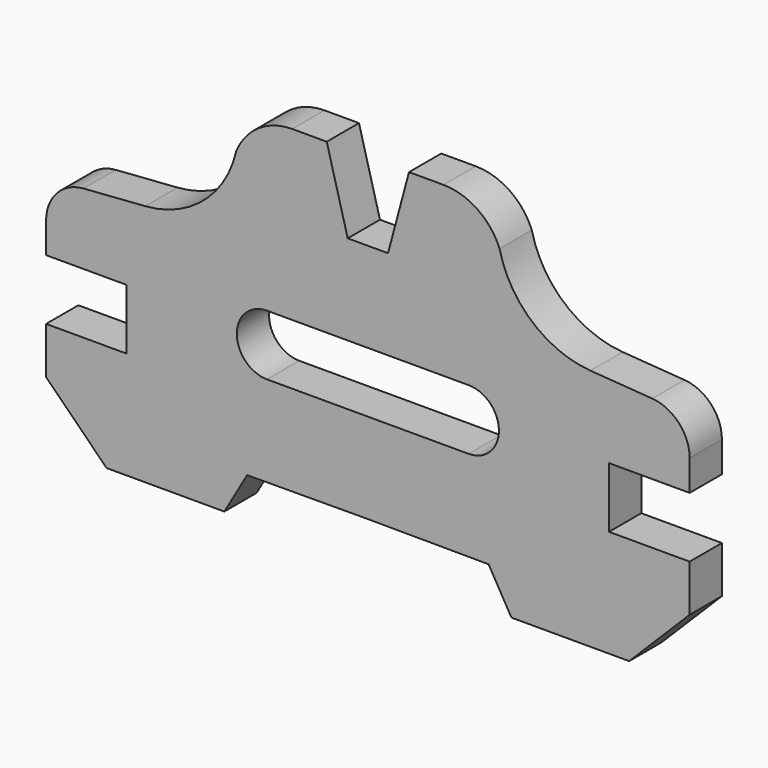
from build123d import *

# Parameters (mm, degrees)
F1_DEPTH = 12.7
F2_SIZE2 = 19.05
F2_SIZE  = 19.05


with BuildPart() as f1:
    # F0 (on Front) → F1 (new body)
    with BuildSketch(Plane.XZ):
        with BuildLine():
            Line((6.35, 37.846), (0, 37.846))
            Line((0, 37.846), (-6.35, 37.846))
            Line((-6.35, 37.846), (-12.951732, 62.484))
            Line((-12.951732, 62.484), (-23.80278, 62.484))
            ThreePointArc((-23.80278, 62.484), (-34.469366, 59.21774), (-41.478225, 50.539007))
            ThreePointArc((-41.478225, 50.539007), (-51.760076, 33.57437), (-70.104, 26.023488))
            Line((-70.104, 26.023488), (-89.569428, 24.604384))
            ThreePointArc((-89.569428, 24.604384), (-97.947009, 20.585614), (-101.346, 11.938))
            Line((-101.346, 11.938), (-101.346, 2.286))
            Line((-101.346, 2.286), (-75.946, 2.286))
            Line((-75.946, 2.286), (-75.946, -16.764))
            Line((-75.946, -16.764), (-101.346, -16.764))
            Line((-101.346, -16.764), (-101.346, -50.546))
            Line((-101.346, -50.546), (-45.212, -50.546))
            Line((-45.212, -50.546), (-38.026299, -38.1))
            Line((-38.026299, -38.1), (0, -37.928034))
            Line((0, -37.928034), (38.026299, -38.1))
            Line((38.026299, -38.1), (45.212, -50.546))
            Line((45.212, -50.546), (101.346, -50.546))
            Line((101.346, -50.546), (101.346, -16.764))
            Line((101.346, -16.764), (75.946, -16.764))
            Line((75.946, -16.764), (75.946, 2.286))
            Line((75.946, 2.286), (101.346, 2.286))
            Line((101.346, 2.286), (101.346, 11.938))
            ThreePointArc((101.346, 11.938), (97.947009, 20.585614), (89.569428, 24.604384))
            Line((89.569428, 24.604384), (70.104, 26.023488))
            ThreePointArc((70.104, 26.023488), (51.760076, 33.57437), (41.478225, 50.539007))
            ThreePointArc((41.478225, 50.539007), (34.469366, 59.21774), (23.80278, 62.484))
            Line((23.80278, 62.484), (12.951732, 62.484))
            Line((12.951732, 62.484), (6.35, 37.846))
        make_face()
        with BuildLine():
            Line((-31.750015, 9.525), (31.749985, 9.525))
            ThreePointArc((31.749985, 9.525), (41.274985, 1.5e-05), (31.750015, -9.525))
            Line((31.750015, -9.525), (-31.749985, -9.525))
            ThreePointArc((-31.749985, -9.525), (-41.275015, -1.5e-05), (-31.750015, 9.525))
        make_face(mode=Mode.SUBTRACT)
    extrude(amount=F1_DEPTH)

    # F2
    f2_edges = [f1.edges().sort_by_distance(p)[0] for p in [
        (-101.346, -6.35, -50.546),
        (101.346, -6.35, -50.546),
    ]]
    chamfer(f2_edges, length=F2_SIZE, length2=F2_SIZE2)


solid = f1.part
